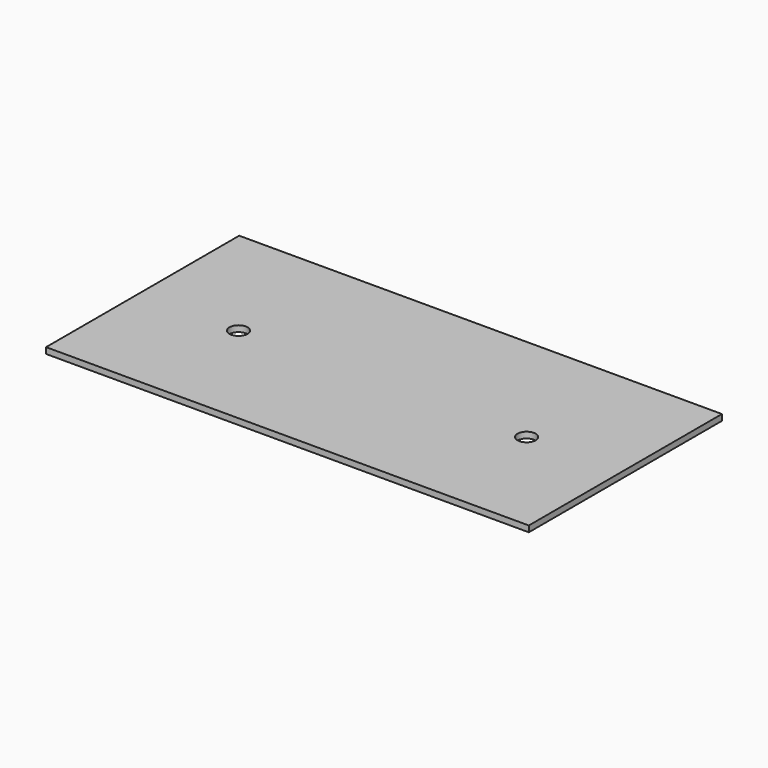
from build123d import *

# Parameters (mm, degrees)
F0_W     = 400
F0_H     = 200
F1_DEPTH = 5
F2_R     = 7.5
F3_DEPTH = 25
F5_R     = 7.5
F6_DEPTH = 25


with BuildPart() as f1:
    # F0 (on Top) → F1 (new body)
    with BuildSketch(Plane.XY):
        with Locations((0.230974, 4.11826)):
            Rectangle(F0_W, F0_H)
    extrude(amount=F1_DEPTH)


with BuildPart() as f3:
    # F2 (on Top) → F3 (new body)
    with BuildSketch(Plane.XY):
        with Locations((121.673325, 0)):
            Circle(F2_R)
    extrude(amount=F3_DEPTH)


with BuildPart() as f1_1:
    add(f1.part)

    # F4: cut F3
    add(f3.part, mode=Mode.SUBTRACT)


with BuildPart() as f6:
    # F5 (on Top) → F6 (new body)
    with BuildSketch(Plane.XY):
        with Locations((-117.027458, 0)):
            Circle(F5_R)
    extrude(amount=F6_DEPTH)


with BuildPart() as f1_2:
    add(f1_1.part)

    # F7: cut F6
    add(f6.part, mode=Mode.SUBTRACT)


solid = f1_2.part
